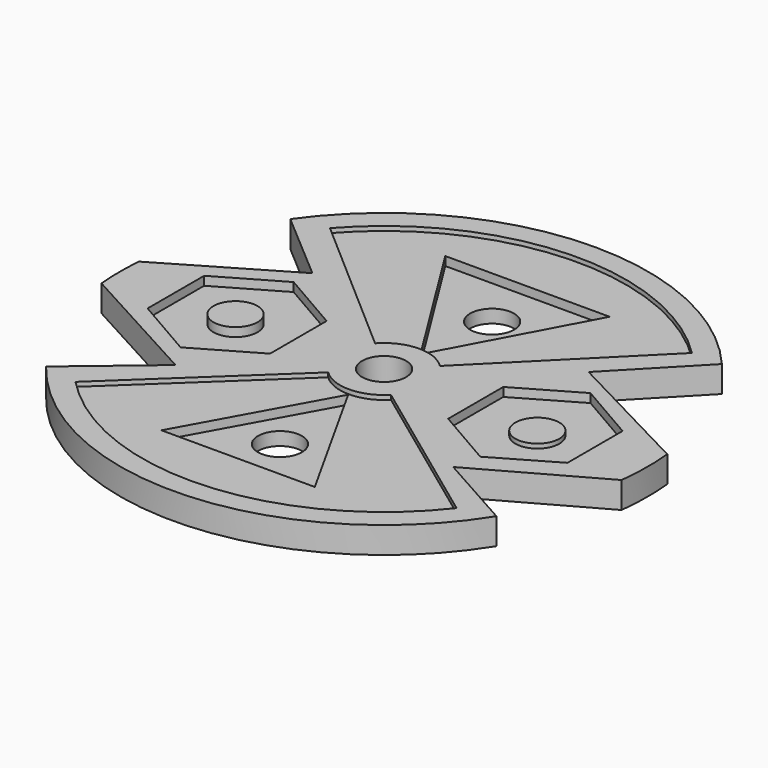
from build123d import *

# Parameters (mm, degrees)
F0_R      = 30
F1_DEPTH  = 3
F3_D      = 5
F4_T      = -2.5
F6_DEPTH  = 0.5
F8_DEPTH  = 1
F9_R      = 2.5
F10_DEPTH = 1
F11_R     = 2.5
F12_DEPTH = 0.5
F14_DEPTH = 25
F16_DEPTH = 1
F17_R     = 2.5
F18_DEPTH = 25
F19_R     = 2.5
F20_DEPTH = 25


with BuildPart() as f1:
    # F0 (on Top) → F1 (new body)
    with BuildSketch(Plane.XY):
        Circle(F0_R)
    extrude(amount=F1_DEPTH)

    # F3 (through all)
    with Locations(Plane.XY.offset(3)):
        with Locations((0, 0)):
            Hole(F3_D / 2)

    # F4
    f4_openings = [f1.faces().sort_by_distance(p)[0] for p in [
        (-29.151472, 0, 3),
    ]]
    offset(amount=F4_T, openings=f4_openings)

    # F5 (on face) → F6 (join)
    with BuildSketch(Plane.XY.offset(2.5)):
        with BuildLine():
            Line((-3.7061291345, 3.3562787188), (-20.6655453429, 18.1434626155))
            ThreePointArc((-20.6655453429, 18.1434626155), (-27.4932748755, -0.6081419392), (-19.8430708, -19.0394995004))
            Line((-19.8430708, -19.0394995004), (-3.4656958421, -3.6040189137))
            ThreePointArc((-3.4656958421, -3.6040189137), (-4.9970195274, -0.1726147243), (-3.7061291345, 3.3562787188))
        make_face()
        with BuildLine():
            ThreePointArc((27.5, 0), (25.3985443317, 10.5434314068), (19.4153493942, 19.4754770905))
            Line((19.4153493942, 19.4754770905), (3.5118989223, 3.5590119358))
            ThreePointArc((3.5118989223, 3.5590119358), (4.6129976486, 1.928795659), (5, 0))
            ThreePointArc((5, 0), (4.6301827404, -1.8871692532), (3.5754368839, -3.4951754018))
            Line((3.5754368839, -3.4951754018), (21.7271281725, -16.8576956128))
            ThreePointArc((21.7271281725, -16.8576956128), (26.0167832826, -8.9093763883), (27.5, 0))
        make_face()
    extrude(amount=F6_DEPTH)

    # F7 (on face) → F8 (cut)
    with BuildSketch(Plane.XY.offset(3)):
        Polygon((-9.7450064495, -4.0173824359), (-9.7450064495, 4.0173824359), (-16.7033169419, 8.0347648717), (-23.6616274342, 4.0173824359), (-23.6616274342, -4.0173824359), (-16.7033169419, -8.0347648717), align=None)
        Polygon((23.9760335535, -3.9143716096), (23.9760335535, 3.9143716096), (17.196143046, 7.8287432191), (10.4162525386, 3.9143716096), (10.4162525386, -3.9143716096), (17.196143046, -7.8287432191), align=None)
    extrude(amount=-F8_DEPTH, mode=Mode.SUBTRACT)

    # F9 (on face) → F10 (join)
    with BuildSketch(Plane.XY.offset(2)):
        with Locations((-16.8817341328, 0)):
            Circle(F9_R)
    extrude(amount=F10_DEPTH)

    # F11 (on face) → F12 (join)
    with BuildSketch(Plane.XY.offset(2)):
        with Locations((17.4225661904, 0)):
            Circle(F11_R)
    extrude(amount=F12_DEPTH)

    # F13 (on face) → F14 (cut)
    with BuildSketch(Plane.XY.offset(3)):
        with BuildLine():
            Line((-16.4704993367, 10.4084135965), (-24.5048685139, 17.3063982133))
            ThreePointArc((-24.5048685139, 17.3063982133), (-28.1853297479, 10.2755626123), (-29.8934929651, 2.525683738))
            Line((-29.8934929651, 2.525683738), (-16.4704993367, 10.4084135965))
        make_face()
        with BuildLine():
            Line((-14.9296056479, -10.9714921564), (-29.8679208941, -2.8119924365))
            ThreePointArc((-29.8679208941, -2.8119924365), (-27.9006586908, -11.0251188029), (-23.7222517619, -18.3644975794))
            Line((-23.7222517619, -18.3644975794), (-14.9296056479, -10.9714921564))
        make_face()
        with BuildLine():
            ThreePointArc((29.8585679972, 2.9096249165), (27.6104662748, 11.7329515506), (22.8189787698, 19.4754770905))
            Line((22.8189787698, 19.4754770905), (14.5399933681, 10.8899418265))
            Line((14.5399933681, 10.8899418265), (29.8585679972, 2.9096249165))
        make_face()
        with BuildLine():
            ThreePointArc((25.4621152474, -15.8644472682), (28.3126519941, -9.9193617265), (29.7957001749, -3.4951754018))
            Line((29.7957001749, -3.4951754018), (16.5624171495, -10.8751859516))
            Line((16.5624171495, -10.8751859516), (25.4621152474, -15.8644472682))
        make_face()
    extrude(amount=-F14_DEPTH, mode=Mode.SUBTRACT)

    # F15 (on face) → F16 (cut)
    with BuildSketch(Plane.XY.offset(2.5)):
        Polygon((-9.9216997623, 21.0983660072), (0.1403799599, 4.9980289582), (8.7616397068, 21.0983660072), (6.9318288006, 21.0983660072), align=None)
        Polygon((8.7616397068, -20.7946915179), (0, -5.0968336873), (-8.6697228253, -20.7946915179), (7.9911928624, -20.7946915179), align=None)
    extrude(amount=-F16_DEPTH, mode=Mode.SUBTRACT)

    # F17 (on face) → F18 (cut)
    with BuildSketch(Plane.XY.offset(1.5)):
        with Locations((0, 15.3488684446)):
            Circle(F17_R)
    extrude(amount=-F18_DEPTH, mode=Mode.SUBTRACT)

    # F19 (on face) → F20 (cut)
    with BuildSketch(Plane.XY.offset(1.5)):
        with Locations((0, -14.7913452238)):
            Circle(F19_R)
    extrude(amount=-F20_DEPTH, mode=Mode.SUBTRACT)


solid = f1.part
